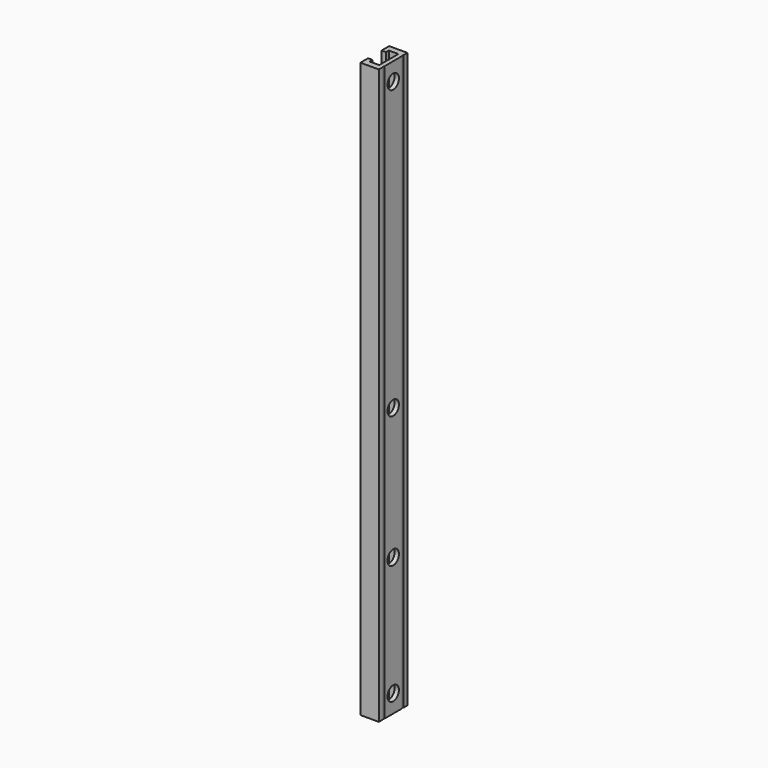
from build123d import *

# Parameters (mm, degrees)
F1_DEPTH = 304.8
F3_D     = 7.62
F3_DEPTH = 25.4


with BuildPart() as f1:
    # F0 (on Top) → F1 (new body)
    with BuildSketch(Plane.XY):
        with BuildLine():
            Line((-4.8895, -9.525), (4.8895, -9.525))
            Line((4.8895, -9.525), (4.8895, -6.861627))
            ThreePointArc((4.8895, -6.861627), (4.593677, -6.366351), (4.8895, -5.871076))
            Line((4.8895, -5.871076), (4.8895, 5.871076))
            ThreePointArc((4.8895, 5.871076), (4.593677, 6.366351), (4.8895, 6.861627))
            Line((4.8895, 6.861627), (4.8895, 9.525))
            Line((4.8895, 9.525), (-4.8895, 9.525))
            Line((-4.8895, 9.525), (-4.8895, 4.445))
            Line((-4.8895, 4.445), (-2.54, 4.445))
            Line((-2.54, 4.445), (-2.54, 6.35))
            Line((-2.54, 6.35), (2.54, 6.35))
            Line((2.54, 6.35), (2.54, -6.35))
            Line((2.54, -6.35), (-2.54, -6.35))
            Line((-2.54, -6.35), (-2.54, -4.445))
            Line((-2.54, -4.445), (-4.8895, -4.445))
            Line((-4.8895, -4.445), (-4.8895, -9.525))
        make_face()
    extrude(amount=F1_DEPTH)

    # F3
    with Locations(Plane.YZ.offset(4.8895)):
        with Locations((0, 295.275), (0, 142.875), (0, 73.025), (0, 9.525)):
            Hole(F3_D / 2, depth=F3_DEPTH)


solid = f1.part
